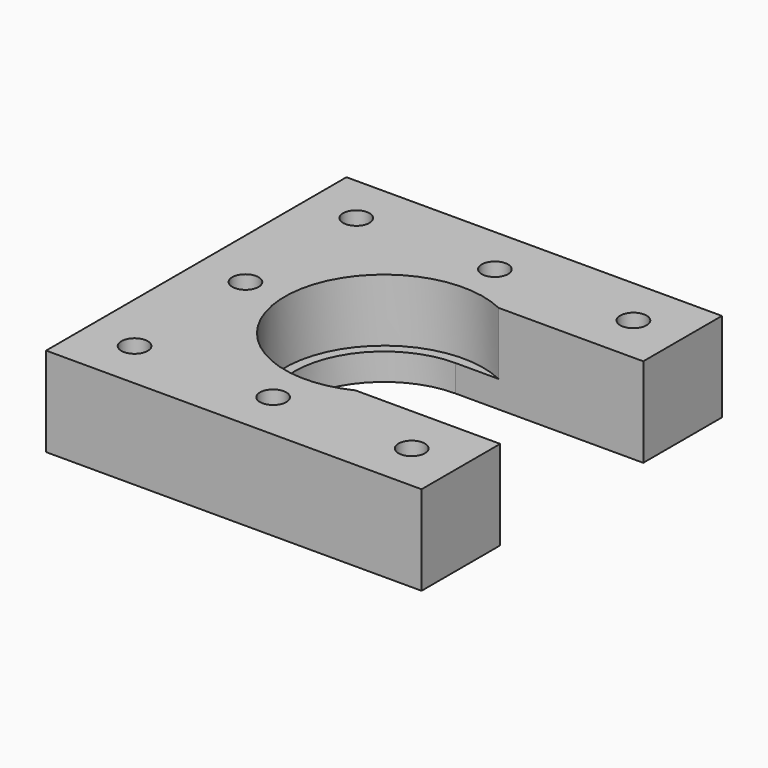
from build123d import *

# Parameters (mm, degrees)
SKETCH004_R     = 1.475
PAD003_DEPTH    = 10
SKETCH009_R     = 2.76
POCKET002_DEPTH = 3
SKETCH014_R     = 11.1
POCKET006_DEPTH = 7


with BuildPart() as part:
    # Sketch004 → Pad003 (new body)
    with BuildSketch(Plane.XY):
        with BuildLine():
            Line((-21, 21), (21, 21))
            Line((21, 21), (21, 10))
            Line((21, 10), (0, 10))
            ThreePointArc((0, 10), (-10, 0), (0, -10))
            Line((21, -10), (0, -10))
            Line((21, -21), (21, -10))
            Line((21, -21), (-21, -21))
            Line((-21, -21), (-21, 21))
        make_face()
        with Locations((-15.5, 15.5)):
            Circle(SKETCH004_R, mode=Mode.SUBTRACT)
        with Locations((15.5, 15.5)):
            Circle(SKETCH004_R, mode=Mode.SUBTRACT)
        with Locations((-15.5, -15.5)):
            Circle(SKETCH004_R, mode=Mode.SUBTRACT)
        with Locations((15.5, -15.5)):
            Circle(SKETCH004_R, mode=Mode.SUBTRACT)
        with Locations((-15.5, 0)):
            Circle(SKETCH004_R, mode=Mode.SUBTRACT)
        with Locations((0, 15.5)):
            Circle(SKETCH004_R, mode=Mode.SUBTRACT)
        with Locations((0, -15.5)):
            Circle(SKETCH004_R, mode=Mode.SUBTRACT)
    extrude(amount=PAD003_DEPTH)

    # Sketch009 → Pocket002 (cut)
    with BuildSketch(Plane.XY):
        with Locations((-15.5, 15.5)):
            Circle(SKETCH009_R)
        with Locations((15.5, 15.5)):
            Circle(SKETCH009_R)
        with Locations((-15.5, -15.5)):
            Circle(SKETCH009_R)
        with Locations((15.5, -15.5)):
            Circle(SKETCH009_R)
        with Locations((-15.5, 0)):
            Circle(SKETCH009_R)
        with Locations((0, 15.5)):
            Circle(SKETCH009_R)
        with Locations((0, -15.5)):
            Circle(SKETCH009_R)
    extrude(amount=POCKET002_DEPTH, mode=Mode.SUBTRACT)

    # Sketch014 (on Face5 of Pocket002) → Pocket006 (cut)
    with BuildSketch(Plane.XY.offset(10)):
        Circle(SKETCH014_R)
    extrude(amount=-POCKET006_DEPTH, mode=Mode.SUBTRACT)


solid = part.part
